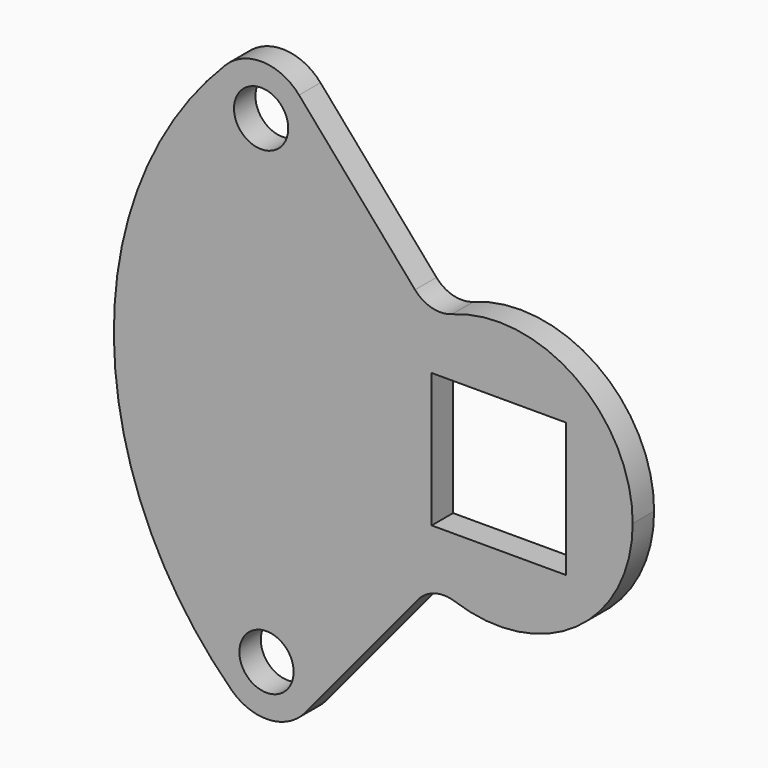
from build123d import *

# Parameters (mm, degrees)
F0_W     = 20.05
F0_H     = 20.05
F1_DEPTH = 4
F2_D     = 8.1
F3_R     = 5


with BuildPart() as f1:
    # F0 (on Front) → F1 (new body)
    with BuildSketch(Plane.XZ):
        with BuildLine():
            ThreePointArc((-9.6465038341, -17.519844856), (10.1752131014, -17.2181601323), (20, 0))
            ThreePointArc((20, 0), (9.9808325833, 17.331560257), (-10.0382980944, 17.2983401333))
            ThreePointArc((-10.0382980944, 17.2983401333), (-19.9987339156, -0.2250372661), (-9.6465038341, -17.519844856))
        make_face()
        Rectangle(F0_W, F0_H, mode=Mode.SUBTRACT)
        with BuildLine():
            ThreePointArc((-9.6465038341, -17.519844856), (-19.9987339156, -0.2250372661), (-10.0382980944, 17.2983401333))
            Line((-10.0382980944, 17.2983401333), (-29.8339876344, 40.1239726576))
            ThreePointArc((-29.8339876344, 40.1239726576), (-28.4734399333, 37.8325737503), (-28, 35.2100837829))
            ThreePointArc((-28, 35.2100837829), (-38.3559150153, 28.275118071), (-40.8249998468, 40.4915965048))
            ThreePointArc((-40.8249998468, 40.4915965048), (-57.4963600088, -0.6469820224), (-39.9035086306, -41.3999999875))
            ThreePointArc((-39.9035086306, -41.3999999875), (-37.6324685474, -29.09760762), (-27.1987031458, -36))
            ThreePointArc((-27.1987031458, -36), (-27.6430799913, -38.5432620593), (-28.9235516531, -40.785146313))
            Line((-28.9235516531, -40.785146313), (-9.6465038341, -17.519844856))
        make_face()
        with BuildLine():
            ThreePointArc((-28, 35.2100837829), (-28.4734399333, 37.8325737503), (-29.8339876344, 40.1239726576))
            ThreePointArc((-29.8339876344, 40.1239726576), (-35.2492826138, 42.7058919977), (-40.8249998468, 40.4915965048))
            ThreePointArc((-40.8249998468, 40.4915965048), (-38.3559150153, 28.275118071), (-28, 35.2100837829))
        make_face()
        with BuildLine():
            ThreePointArc((-39.9035086306, -41.3999999875), (-34.2793764206, -43.488268498), (-28.9235516531, -40.785146313))
            ThreePointArc((-28.9235516531, -40.785146313), (-27.6430799913, -38.5432620593), (-27.1987031458, -36))
            ThreePointArc((-27.1987031458, -36), (-37.6324685474, -29.09760762), (-39.9035086306, -41.3999999875))
        make_face()
    extrude(amount=F1_DEPTH)

    # F2 (through all)
    with Locations(Plane(origin=(0, 0, 0), x_dir=(1, 0, 0), z_dir=(0, 1, 0))):
        with Locations((-34.6987031458, 36), (-35.5, -35.2100837829)):
            Hole(F2_D / 2)

    # F3
    f3_edges = [f1.edges().sort_by_distance(p)[0] for p in [
        (-10.038298, -2, 17.29834),
        (-9.646504, -2, -17.519845),
    ]]
    fillet(f3_edges, radius=F3_R)


solid = f1.part
